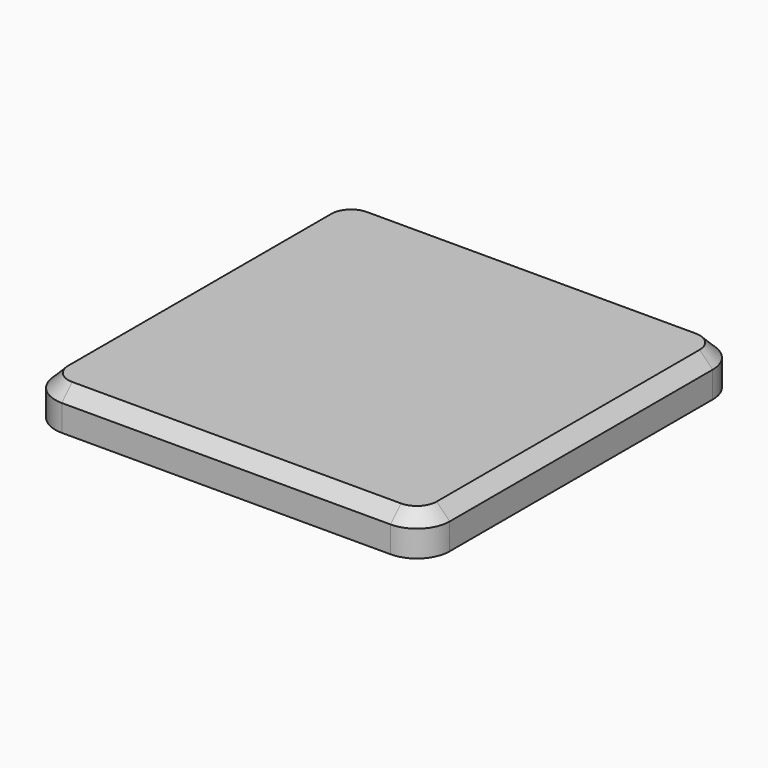
from build123d import *

# Parameters (mm, degrees)
F1_DEPTH = 30
F2_SIZE  = 10


with BuildPart() as f1:
    # F0 (on Top) → F1 (new body)
    with BuildSketch(Plane.XY):
        with BuildLine():
            Line((125, 150), (0, 150))
            Line((0, 150), (-125, 150))
            ThreePointArc((-125, 150), (-142.67767, 142.67767), (-150, 125))
            Line((-150, 125), (-150, 0))
            Line((-150, 0), (-150, -125))
            ThreePointArc((-150, -125), (-142.67767, -142.67767), (-125, -150))
            Line((-125, -150), (0, -150))
            Line((0, -150), (125, -150))
            ThreePointArc((125, -150), (142.67767, -142.67767), (150, -125))
            Line((150, -125), (150, 0))
            Line((150, 0), (150, 125))
            ThreePointArc((150, 125), (142.67767, 142.67767), (125, 150))
        make_face()
    extrude(amount=F1_DEPTH)

    # F2
    f2_edges = [f1.edges().sort_by_distance(p)[0] for p in [
        (0, 150, 30),
    ]]
    chamfer(f2_edges, length=F2_SIZE)


solid = f1.part
